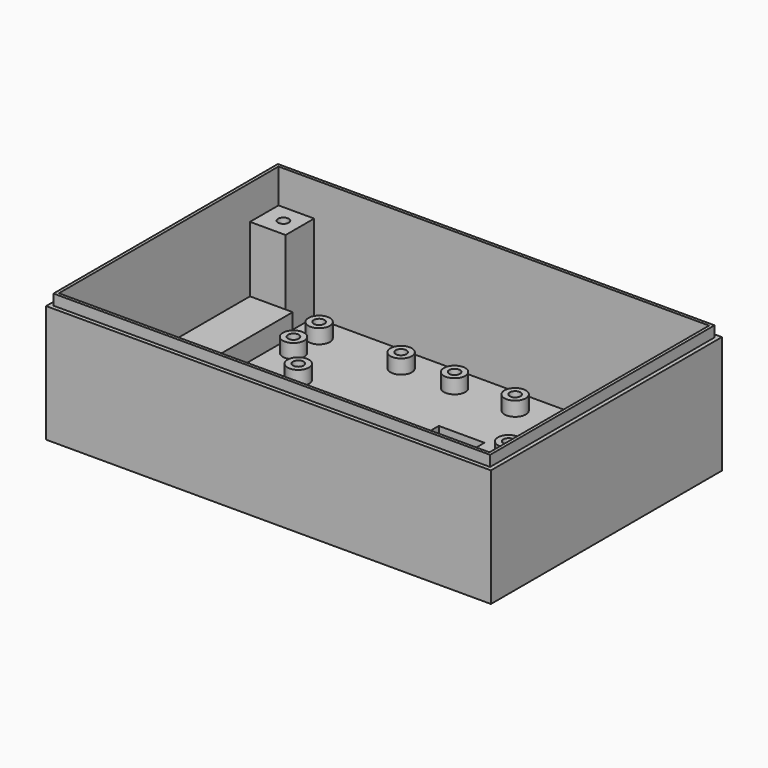
from build123d import *

# Parameters (mm, degrees)
F0_W      = 124.8
F0_H      = 81
F1_DEPTH  = 33
F2_W      = 122.5
F2_H      = 78.7
F3_DEPTH  = 3
F4_W      = 120.8
F4_H      = 77
F5_DEPTH  = 34
F6_W      = 10
F6_H      = 10
F7_DEPTH  = 24.4
F8_R      = 1.5
F9_DEPTH  = 4.8
F10_W     = 26
F10_H     = 46
F10_W_2   = 20
F10_H_2   = 12.8
F10_W_3   = 12.8
F10_H_3   = 30.7
F11_DEPTH = 2.001
F12_R     = 3
F13_DEPTH = 4
F14_R     = 1.5
F15_DEPTH = 4.8
F16_W     = 12
F16_H     = 57
F17_DEPTH = 6
F18_R     = 1.5
F19_DEPTH = 4.8
F20_W     = 26
F20_H     = 16
F21_DEPTH = 6
F22_R     = 1.5
F23_DEPTH = 4.8
F24_R     = 5
F24_R_2   = 4
F25_DEPTH = 1
F27_DEPTH = 1
F28_R     = 4.25
F28_R_2   = 3.65
F29_DEPTH = 1


with BuildPart() as f1:
    # F0 (on Top) → F1 (new body)
    with BuildSketch(Plane.XY):
        Rectangle(F0_W, F0_H)
    extrude(amount=F1_DEPTH)

    # F2 (on face) → F3 (join)
    with BuildSketch(Plane.XY.offset(33)):
        Rectangle(F2_W, F2_H)
    extrude(amount=F3_DEPTH)

    # F4 (on face) → F5 (cut)
    with BuildSketch(Plane.XY.offset(36)):
        Rectangle(F4_W, F4_H)
    extrude(amount=-F5_DEPTH, mode=Mode.SUBTRACT)

    # F6 (on face) → F7 (join)
    with BuildSketch(Plane.XY.offset(2)):
        with Locations((-55.4, 33.5)):
            Rectangle(F6_W, F6_H)
        with Locations((-55.4, -33.5)):
            Rectangle(F6_W, F6_H)
        with Locations((55.4, -33.5)):
            Rectangle(F6_W, F6_H)
        with Locations((55.4, 33.5)):
            Rectangle(F6_W, F6_H)
    extrude(amount=F7_DEPTH)

    # F8 (on face) → F9 (cut)
    with BuildSketch(Plane.XY.offset(26.4)):
        with Locations((-55, 33.5)):
            Circle(F8_R)
        with Locations((-55, -33.5)):
            Circle(F8_R)
        with Locations((55, -33.5)):
            Circle(F8_R)
        with Locations((55, 33.5)):
            Circle(F8_R)
    extrude(amount=-F9_DEPTH, mode=Mode.SUBTRACT)

    # F10 (on face) → F11 (cut, through all)
    with BuildSketch(Plane.XY.offset(2)):
        with Locations((44.4, 4.5)):
            Rectangle(F10_W, F10_H)
        with Locations((23.4, -29.1)):
            Rectangle(F10_W_2, F10_H_2)
        with Locations((9.5, 0)):
            Rectangle(F10_W_3, F10_H_3)
    extrude(amount=-F11_DEPTH, mode=Mode.SUBTRACT)

    # F12 (on face) → F13 (join)
    with BuildSketch(Plane.XY.offset(2)):
        with Locations((24.4, 13.2)):
            Circle(F12_R)
        with Locations((-34.6, 13.2)):
            Circle(F12_R)
        with Locations((-34.6, -15.8)):
            Circle(F12_R)
        with Locations((24.4, -15.8)):
            Circle(F12_R)
        with Locations((-43.4, 31.5)):
            Circle(F12_R)
        with Locations((-43.4, 22.5)):
            Circle(F12_R)
        with Locations((-20.4, 31.5)):
            Circle(F12_R)
        with Locations((-5.4, 31.5)):
            Circle(F12_R)
        with Locations((11.6, 31.5)):
            Circle(F12_R)
    extrude(amount=F13_DEPTH)

    # F14 (on face) → F15 (cut)
    with BuildSketch(Plane.XY.offset(2)):
        with Locations((-34.6, -15.8)):
            Circle(F14_R)
        with Locations((24.4, -15.8)):
            Circle(F14_R)
        with Locations((-34.6, 13.2)):
            Circle(F14_R)
        with Locations((24.4, 13.2)):
            Circle(F14_R)
        with Locations((11.6, 31.5)):
            Circle(F14_R)
        with Locations((-5.4, 31.5)):
            Circle(F14_R)
        with Locations((-20.4, 31.5)):
            Circle(F14_R)
        with Locations((-43.4, 22.5)):
            Circle(F14_R)
        with Locations((-43.4, 31.5)):
            Circle(F14_R)
    extrude(amount=F15_DEPTH, mode=Mode.SUBTRACT)

    # F16 (on face) → F17 (join)
    with BuildSketch(Plane.XY.offset(2)):
        with Locations((-54.4, 0)):
            Rectangle(F16_W, F16_H)
    extrude(amount=F17_DEPTH)

    # F18 (on face) → F19 (cut)
    with BuildSketch(Plane.XY.offset(8)):
        with Locations((-54.4, 0)):
            Circle(F18_R)
    extrude(amount=-F19_DEPTH, mode=Mode.SUBTRACT)

    # F20 (on face) → F21 (join)
    with BuildSketch(Plane.XY.offset(2)):
        with Locations((-22.927424, -30.5)):
            Rectangle(F20_W, F20_H)
    extrude(amount=F21_DEPTH)

    # F22 (on face) → F23 (cut)
    with BuildSketch(Plane.XY.offset(8)):
        with Locations((-22.927424, -25)):
            Circle(F22_R)
        with Locations((-22.927424, -36)):
            Circle(F22_R)
    extrude(amount=-F23_DEPTH, mode=Mode.SUBTRACT)

    # F24 (on face) → F25 (join)
    with BuildSketch(Plane(origin=(0, 0, 0), x_dir=(1, 0, 0), z_dir=(0, 0, -1))):
        with Locations((47.4, 32.5)):
            Circle(F24_R)
        with Locations((47.4, 32.5)):
            Circle(F24_R_2, mode=Mode.SUBTRACT)
    extrude(amount=F25_DEPTH)

    # F26 (on face) → F27 (join)
    with BuildSketch(Plane(origin=(0, 0, 0), x_dir=(1, 0, 0), z_dir=(0, 0, -1))):
        Polygon((51.51844, 33.062976), (44.911735, 36.120117), (44.168741, 35.294835), (46.409786, 34.256469), (46.409786, 30.746656), (44.189125, 29.699225), (45.097549, 28.966295), (51.51844, 31.970277), align=None)
        Polygon((47.476035, 33.758733), (50.228067, 32.507077), (47.476035, 31.239656), align=None, mode=Mode.SUBTRACT)
    extrude(amount=F27_DEPTH)

    # F28 (on face) → F29 (join)
    with BuildSketch(Plane(origin=(0, 0, 0), x_dir=(1, 0, 0), z_dir=(0, 0, -1))):
        with Locations((19.612311, -19.062311)):
            Circle(F28_R)
        with Locations((-0.612311, 19.062311)):
            Circle(F28_R)
        with Locations((-0.612311, 19.062311)):
            Circle(F28_R_2, mode=Mode.SUBTRACT)
    extrude(amount=F29_DEPTH)


solid = f1.part
